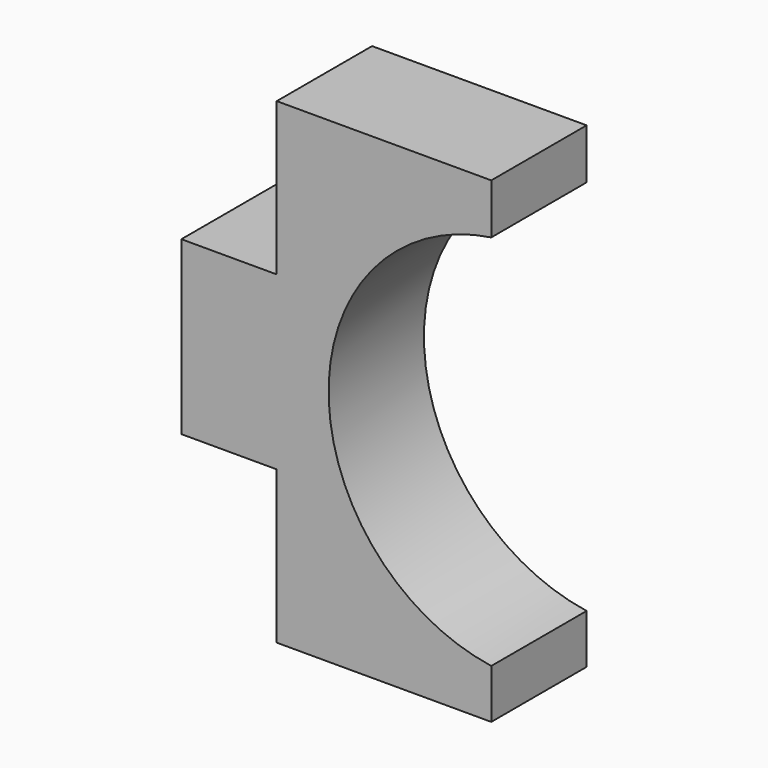
from build123d import *

# Parameters (mm, degrees)
F0_W     = 20
F0_H     = 36
F1_DEPTH = 25


with BuildPart() as f1:
    # F0 (on Front) → F1 (new body)
    with BuildSketch(Plane.XZ):
        with BuildLine():
            Line((10.678106, 43.916676), (-34.321894, 43.916676))
            Line((-34.321894, 43.916676), (-34.321894, 11.916676))
            Line((-34.321894, 11.916676), (-34.321894, -24.083324))
            Line((-34.321894, -24.083324), (-34.321894, -56.083324))
            Line((-34.321894, -56.083324), (10.678106, -56.083324))
            Line((10.678106, -56.083324), (10.678106, -45.748651))
            ThreePointArc((10.678106, -45.748651), (-23.441, -6.183324), (10.678106, 33.382003))
            Line((10.678106, 33.382003), (10.678106, 43.916676))
        make_face()
        with Locations((-44.321894, -6.083324)):
            Rectangle(F0_W, F0_H)
    extrude(amount=F1_DEPTH)


solid = f1.part
